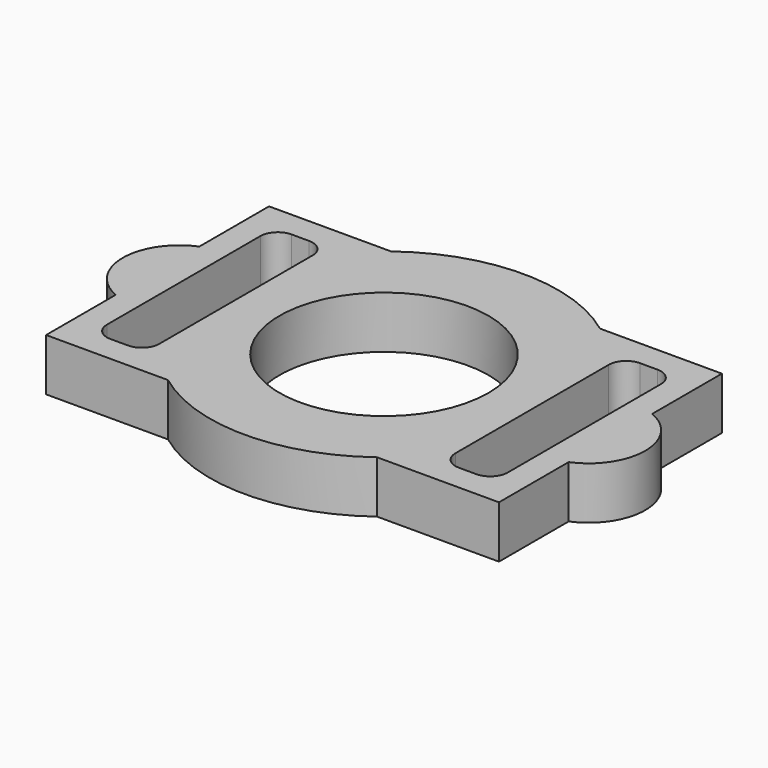
from build123d import *

# Parameters (mm, degrees)
F0_R     = 60
F1_DEPTH = 30


with BuildPart() as f1:
    # F0 (on Top) → F1 (new body)
    with BuildSketch(Plane.XY):
        with BuildLine():
            Line((-130, -80), (-60, -80))
            ThreePointArc((-60, -80), (0, -100), (60, -80))
            Line((60, -80), (130, -80))
            Line((130, -80), (130, -30))
            ThreePointArc((130, -30), (150, 0), (130, 30))
            Line((130, 30), (130, 80))
            Line((130, 80), (60, 80))
            ThreePointArc((60, 80), (0, 100), (-60, 80))
            Line((-60, 80), (-130, 80))
            Line((-130, 80), (-130, 30))
            ThreePointArc((-130, 30), (-150, 0), (-130, -30))
            Line((-130, -30), (-130, -80))
        make_face()
        with BuildLine():
            Line((-115, -55), (-115, 55))
            ThreePointArc((-115, 55), (-112.071068, 62.071068), (-105, 65))
            Line((-105, 65), (-95, 65))
            ThreePointArc((-95, 65), (-87.928932, 62.071068), (-85, 55))
            Line((-85, 55), (-85, -55))
            ThreePointArc((-85, -55), (-87.928932, -62.071068), (-95, -65))
            Line((-95, -65), (-105, -65))
            ThreePointArc((-105, -65), (-112.071068, -62.071068), (-115, -55))
        make_face(mode=Mode.SUBTRACT)
        Circle(F0_R, mode=Mode.SUBTRACT)
        with BuildLine():
            ThreePointArc((85, 55), (87.928932, 62.071068), (95, 65))
            Line((95, 65), (105, 65))
            ThreePointArc((105, 65), (112.071068, 62.071068), (115, 55))
            Line((115, 55), (115, -55))
            ThreePointArc((115, -55), (112.071068, -62.071068), (105, -65))
            Line((105, -65), (95, -65))
            ThreePointArc((95, -65), (87.928932, -62.071068), (85, -55))
            Line((85, -55), (85, 55))
        make_face(mode=Mode.SUBTRACT)
    extrude(amount=F1_DEPTH)


solid = f1.part
